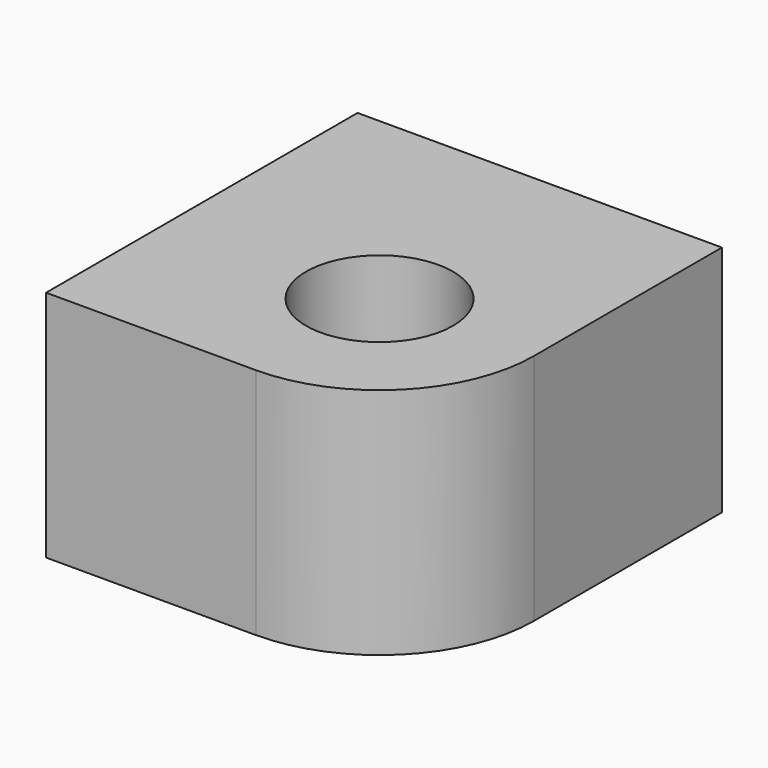
from build123d import *

# Parameters (mm, degrees)
F0_W     = 108.33516
F0_H     = 115.749128
F1_DEPTH = 69.342
F2_R     = 45.990768
F3_R     = 21.838167
F4_DEPTH = 89.916


with BuildPart() as f1:
    # F0 (on Top) → F1 (new body)
    with BuildSketch(Plane.XY):
        with Locations((54.16758, -57.874564)):
            Rectangle(F0_W, F0_H)
    extrude(amount=F1_DEPTH)

    # F2
    f2_edges = [f1.edges().sort_by_distance(p)[0] for p in [
        (108.33516, -115.749128, 34.671),
    ]]
    fillet(f2_edges, radius=F2_R)

    # F3 (on face) → F4 (cut)
    with BuildSketch(Plane.XY.offset(69.342)):
        with Locations((62.344391, -69.75836)):
            Circle(F3_R)
    extrude(amount=-F4_DEPTH, mode=Mode.SUBTRACT)


solid = f1.part
